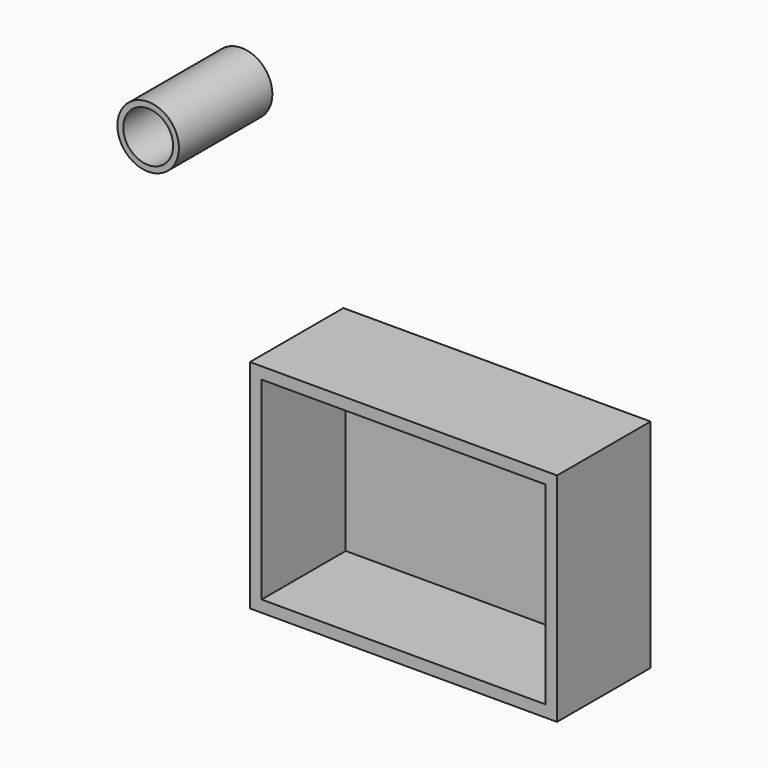
from build123d import *

# Parameters (mm, degrees)
F0_W     = 66.781222
F0_H     = 47.175732
F1_DEPTH = 25.4
F2_T     = -2.54
F3_R     = 6.687023
F4_DEPTH = 25.4
F5_T     = -1.27


with BuildPart() as f1:
    # F0 (on Front) → F1 (new body)
    with BuildSketch(Plane.XZ):
        Rectangle(F0_W, F0_H)
    extrude(amount=F1_DEPTH)

    # F2
    f2_openings = [f1.faces().sort_by_distance(p)[0] for p in [
        (0, -25.4, 0),
    ]]
    offset(amount=F2_T, openings=f2_openings)


with BuildPart() as f4:
    # F3 (on Front) → F4 (new body)
    with BuildSketch(Plane.XZ):
        with Locations((-55.522956, 59.509221)):
            Circle(F3_R)
    extrude(amount=F4_DEPTH)

    # F5
    f5_openings = [f4.faces().sort_by_distance(p)[0] for p in [
        (-55.522956, -25.4, 59.509221),
    ]]
    offset(amount=F5_T, openings=f5_openings)


solid = Compound([f1.part, f4.part])
